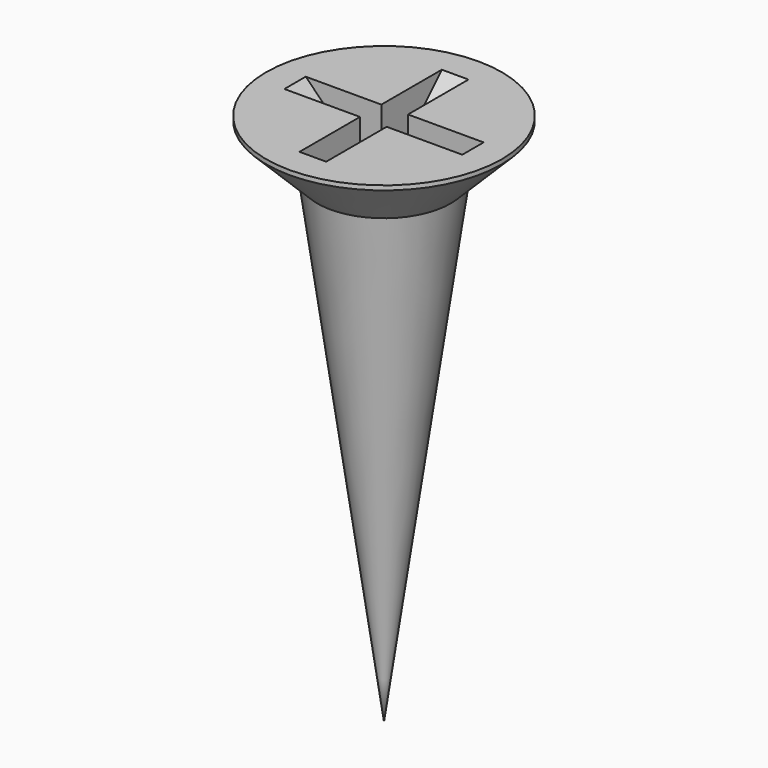
from build123d import *

# Parameters (mm, degrees)
POCKET001_DEPTH    = 0.3
POLARPATTERN_COUNT = 2
POLARPATTERN_ANGLE = 90


with BuildPart() as part:
    # Sketch013 → Revolution (revolve)
    with BuildSketch(Plane.XZ):
        Polygon((0, 0), (0, -12), (1.5, -1.25), (2.65, -0.1), (2.65, 0), align=None)
    revolve(axis=Axis((0, 0, 0), (0, 0, 1)))

    # Sketch014 → Pocket001 (cut, symmetric)
    with BuildSketch(Plane.XZ):
        Polygon((-2, 0), (0, -2), (2, 0), align=None)
    pocket001 = extrude(amount=POCKET001_DEPTH, both=True, mode=Mode.SUBTRACT)

    # PolarPattern: Pocket001 ×2 about axis
    polarpattern_axis = Axis((0, 0, 0), (0, 0, 1))
    for i in range(1, POLARPATTERN_COUNT):
        add(pocket001.rotate(polarpattern_axis, i * POLARPATTERN_ANGLE / (POLARPATTERN_COUNT - 1)), mode=Mode.SUBTRACT)


with BuildPart() as part_1:
    # Body011 placement: moved
    add(part.part.moved(Location((19, 20, 6.2))))


solid = part_1.part
